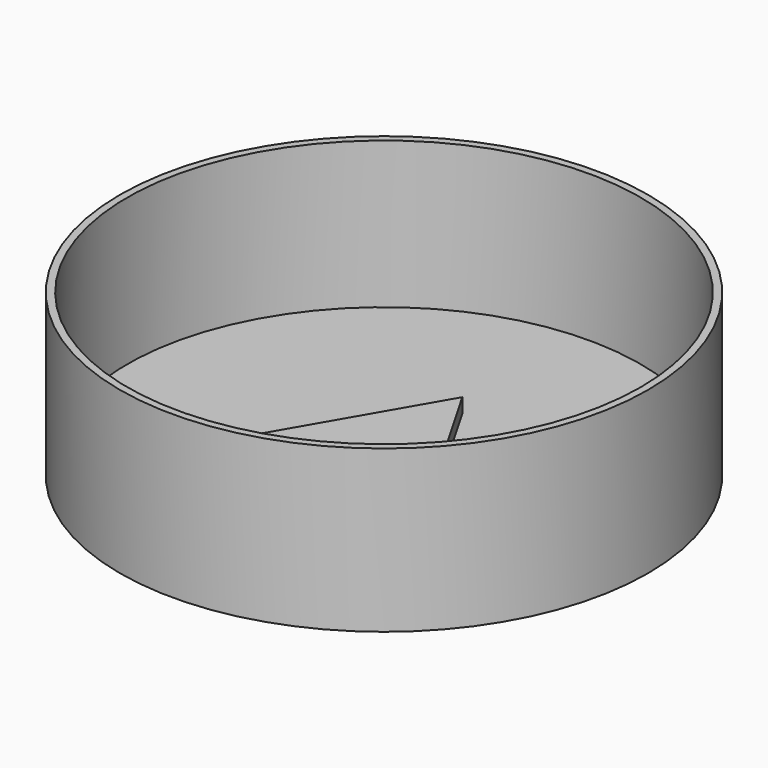
from build123d import *

# Parameters (mm, degrees)
F0_R     = 45.72
F0_R_2   = 44.45
F1_DEPTH = 27.94
F2_DEPTH = 2.54
F4_DEPTH = 2.54


with BuildPart() as f1:
    # F0 (on Top) → F1 (new body)
    with BuildSketch(Plane.XY):
        Circle(F0_R)
        Circle(F0_R_2, mode=Mode.SUBTRACT)
    extrude(amount=F1_DEPTH)

    # F0 (on Top) → F2 (join)
    with BuildSketch(Plane.XY):
        Circle(F0_R_2)
    extrude(amount=F2_DEPTH)

    # F3 (on face) → F4 (join)
    with BuildSketch(Plane.XY.offset(2.54)):
        Polygon((-14.664697, -8.466667), (14.664697, -8.466667), (0, 16.933333), align=None)
    extrude(amount=F4_DEPTH)


solid = f1.part
